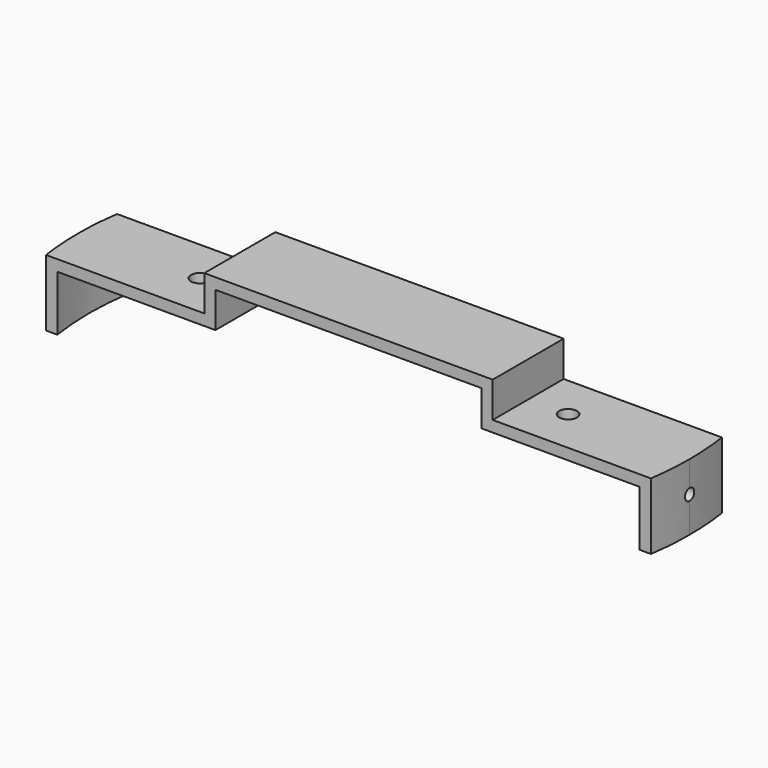
from build123d import *

# Parameters (mm, degrees)
F1_DEPTH = 10
F2_R     = 2
F3_DEPTH = 23.001
F5_DEPTH = 15.001
F6_DEPTH = 15
F7_R     = 1.3
F8_DEPTH = 68.901


with BuildPart() as f1:
    # F0 (on Front) → F1 (new body, symmetric)
    with BuildSketch(Plane.XZ):
        Polygon((32.5, 0), (0, 0), (0, -2.5), (30, -2.5), (30, -10.5), (66.4, -10.5), (66.4, -23), (68.9, -23), (68.9, -8), (32.5, -8), align=None)
    extrude(amount=F1_DEPTH, both=True)

    # F2 (on Top) → F3 (cut, through all)
    with BuildSketch(Plane.XY):
        with Locations((41.5, 0)):
            Circle(F2_R)
    extrude(amount=-F3_DEPTH, mode=Mode.SUBTRACT)

    # F4 (on face) → F5 (cut, through all)
    with BuildSketch(Plane.XY.offset(-8)):
        Polygon((70.9, 10), (68.9, 10), (68.9, 0), (68.9, -10), (70.9, -10), align=None)
        with BuildLine():
            Line((68.9, -10), (68.9, 0))
            ThreePointArc((68.9, 0), (68.71737, -5.013288), (68.170448, -10))
            Line((68.170448, -10), (68.9, -10))
        make_face()
        with BuildLine():
            Line((68.9, 10), (68.170448, 10))
            ThreePointArc((68.170448, 10), (68.71737, 5.013288), (68.9, 0))
            Line((68.9, 0), (68.9, 10))
        make_face()
    extrude(amount=-F5_DEPTH, mode=Mode.SUBTRACT)

    # F4 (on face) → F6 (join, through all)
    with BuildSketch(Plane.XY.offset(-8)):
        with BuildLine():
            Line((68.170448, 10), (65.642669, 10))
            ThreePointArc((65.642669, 10), (66.4, 0), (65.642669, -10))
            Line((65.642669, -10), (68.170448, -10))
            ThreePointArc((68.170448, -10), (68.71737, -5.013288), (68.9, 0))
            ThreePointArc((68.9, 0), (68.71737, 5.013288), (68.170448, 10))
        make_face()
    extrude(amount=-F6_DEPTH)

    # F7 (on Right) → F8 (cut, through all)
    with BuildSketch(Plane.YZ):
        with Locations((0, -15)):
            Circle(F7_R)
    extrude(amount=F8_DEPTH, mode=Mode.SUBTRACT)

    # F9: F1 across plane


with BuildPart() as f1_1:
    add(f1.part)
    add(f1.part.mirror(Plane.YZ))


solid = f1_1.part
